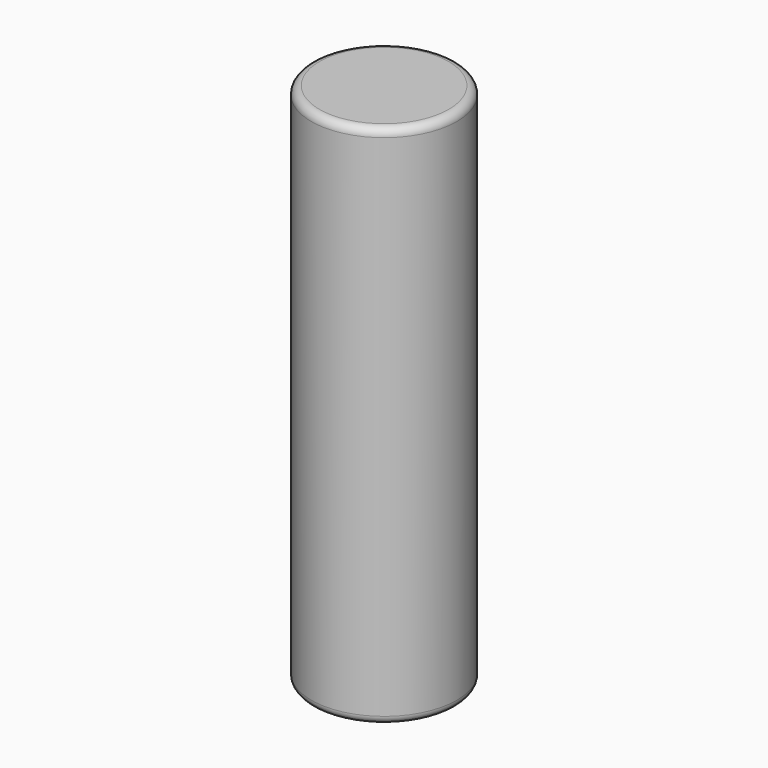
from build123d import *

# Parameters (mm, degrees)
SKETCH_R  = 9
PAD_DEPTH = 65
FILLET_R  = 1


with BuildPart() as part:
    # Sketch → Pad (new body)
    with BuildSketch(Plane.XY):
        Circle(SKETCH_R)
    extrude(amount=PAD_DEPTH)

    # Fillet
    fillet_edges = [part.edges().sort_by_distance(p)[0] for p in [
        (-9, 0, 65),
        (-9, 0, 0),
    ]]
    fillet(fillet_edges, radius=FILLET_R)


solid = part.part
